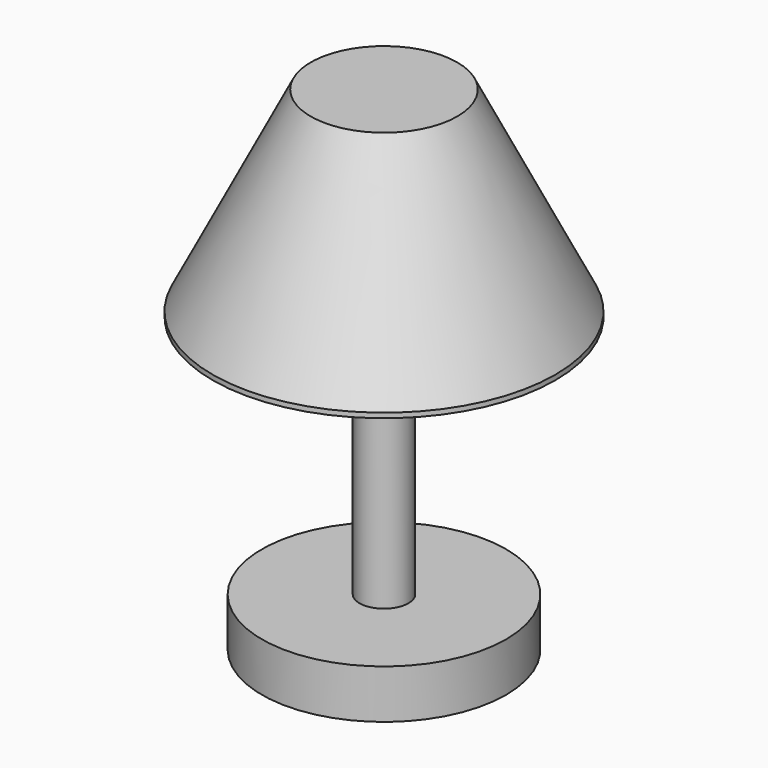
from build123d import *

# Parameters (mm, degrees)
F0_R      = 63.5
F1_DEPTH  = 25.4
F2_R      = 12.7
F3_DEPTH  = 127
F4_R      = 89.163548
F4_R_2    = 12.7
F5_DEPTH  = 2.54
F5_FACE_R = 89.163548
F7_R      = 38.1


with BuildPart() as f1:
    # F0 (on Top) → F1 (new body)
    with BuildSketch(Plane.XY):
        Circle(F0_R)
    extrude(amount=F1_DEPTH)

    # F2 (on face) → F3 (join)
    with BuildSketch(Plane.XY.offset(25.4)):
        Circle(F2_R)
    extrude(amount=F3_DEPTH)

    # F4 (on face) → F5 (join)
    with BuildSketch(Plane.XY.offset(152.4)):
        Circle(F4_R)
        Circle(F4_R_2, mode=Mode.SUBTRACT)
        Circle(F4_R_2)
    extrude(amount=F5_DEPTH)

    # F5_face (on face) → F8 section 0
    with BuildSketch(Plane.XY.offset(154.94)):
        Circle(F5_FACE_R)
    # F7 (on offset) → F8 section 1
    with BuildSketch(Plane.XY.offset(256.54)):
        Circle(F7_R)
    loft()


solid = f1.part
